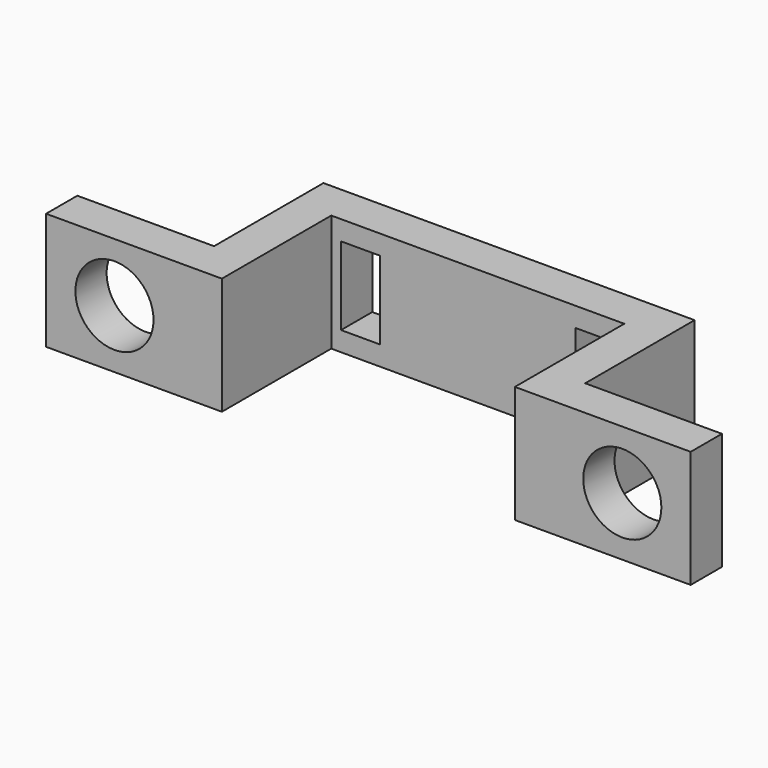
from build123d import *

# Parameters (mm, degrees)
CYLINDER001_R     = 2
CYLINDER001_DEPTH = 10
BOX004_W          = 7
BOX004_H          = 2
BOX004_DEPTH      = 6
BOX002_W          = 2
BOX002_H          = 7
BOX002_DEPTH      = 6
BOX001_W          = 2
BOX001_H          = 7
BOX001_DEPTH      = 6
CYLINDER_R        = 2
CYLINDER_DEPTH    = 10
BOX003_W          = 7
BOX003_H          = 2
BOX003_DEPTH      = 6
BOX006_W          = 2
BOX006_H          = 6
BOX006_DEPTH      = 4
BOX005_W          = 2
BOX005_H          = 6
BOX005_DEPTH      = 4
BOX_W             = 19
BOX_H             = 2
BOX_DEPTH         = 6


with BuildPart() as cylinder001:
    # Cylinder001 → Cylinder001 (new body)
    with BuildSketch(Plane(origin=(22.5, 0, 3), x_dir=(1, 0, 0), z_dir=(0, -1, 0))):
        Circle(CYLINDER001_R)
    extrude(amount=CYLINDER001_DEPTH)


with BuildPart() as cut001:
    # Box004 → Box004 (new body)
    with BuildSketch(Plane(origin=(19, -7, 0), x_dir=(1, 0, 0), z_dir=(0, 0, 1))):
        with Locations((3.5, 1)):
            Rectangle(BOX004_W, BOX004_H)
    extrude(amount=BOX004_DEPTH)

    # Cut001: cut Cylinder001
    add(cylinder001.part, mode=Mode.SUBTRACT)


with BuildPart() as cube002:
    # Box002 → Box002 (new body)
    with BuildSketch(Plane(origin=(17, -7, 0), x_dir=(1, 0, 0), z_dir=(0, 0, 1))):
        with Locations((1, 3.5)):
            Rectangle(BOX002_W, BOX002_H)
    extrude(amount=BOX002_DEPTH)


with BuildPart() as cube001:
    # Box001 → Box001 (new body)
    with BuildSketch(Plane(origin=(0, -7, 0), x_dir=(1, 0, 0), z_dir=(0, 0, 1))):
        with Locations((1, 3.5)):
            Rectangle(BOX001_W, BOX001_H)
    extrude(amount=BOX001_DEPTH)


with BuildPart() as cylinder:
    # Cylinder → Cylinder (new body)
    with BuildSketch(Plane(origin=(-3.5, 0, 3), x_dir=(1, 0, 0), z_dir=(0, -1, 0))):
        Circle(CYLINDER_R)
    extrude(amount=CYLINDER_DEPTH)


with BuildPart() as fusion:
    # Box003 → Box003 (new body)
    with BuildSketch(Plane(origin=(-7, -7, 0), x_dir=(1, 0, 0), z_dir=(0, 0, 1))):
        with Locations((3.5, 1)):
            Rectangle(BOX003_W, BOX003_H)
    extrude(amount=BOX003_DEPTH)

    # Cut: cut Cylinder
    add(cylinder.part, mode=Mode.SUBTRACT)

    # Fusion: union Cube001
    add(cube001.part)


with BuildPart() as cube006:
    # Box006 → Box006 (new body)
    with BuildSketch(Plane(origin=(14.5, -3, 1), x_dir=(1, 0, 0), z_dir=(0, 0, 1))):
        with Locations((1, 3)):
            Rectangle(BOX006_W, BOX006_H)
    extrude(amount=BOX006_DEPTH)


with BuildPart() as cube005:
    # Box005 → Box005 (new body)
    with BuildSketch(Plane(origin=(2.5, -3, 1), x_dir=(1, 0, 0), z_dir=(0, 0, 1))):
        with Locations((1, 3)):
            Rectangle(BOX005_W, BOX005_H)
    extrude(amount=BOX005_DEPTH)


with BuildPart() as fusion003:
    # Box → Box (new body)
    with BuildSketch(Plane.XY):
        with Locations((9.5, 1)):
            Rectangle(BOX_W, BOX_H)
    extrude(amount=BOX_DEPTH)

    # Cut002: cut Cube005
    add(cube005.part, mode=Mode.SUBTRACT)

    # Cut003: cut Cube006
    add(cube006.part, mode=Mode.SUBTRACT)

    # Fusion001: union Fusion
    add(fusion.part)

    # Fusion002: union Cube002
    add(cube002.part)

    # Fusion003: union Cut001
    add(cut001.part)


solid = fusion003.part
